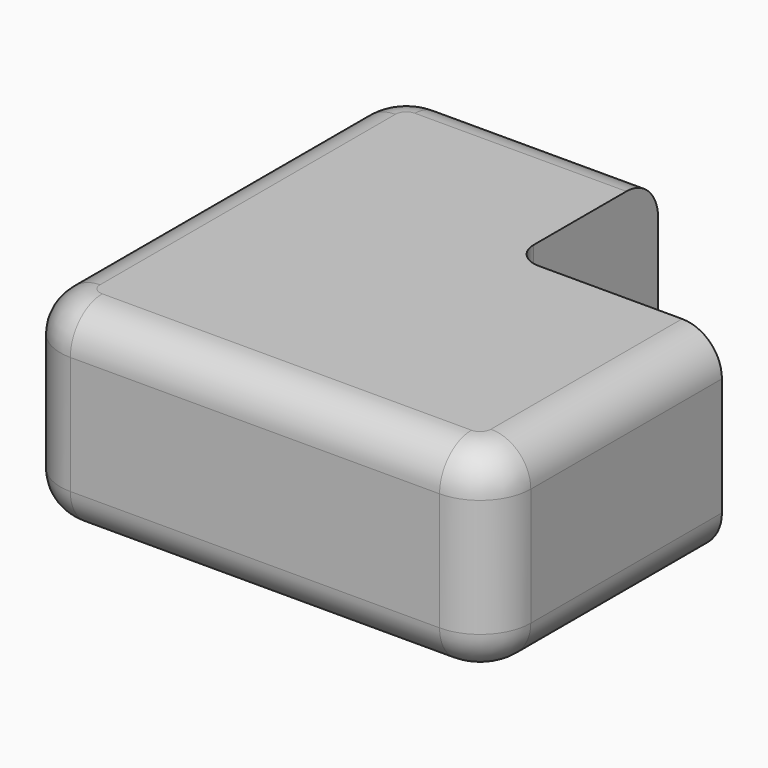
from build123d import *

# Parameters (mm, degrees)
F1_DEPTH  = 27.3
F3_R      = 7
F4_R      = 3.5
F5_R      = 5.5
F2_R      = 6.1305723334
F6_DEPTH  = 0.1
F7_R      = 2.5
F8_DEPTH  = 2
F9_R      = 5
F9_R_2    = 2.5
F10_DEPTH = 1.5


with BuildPart() as f1:
    # F0 (on Top) → F1 (new body)
    with BuildSketch(Plane.XY):
        Polygon((36.2, 0), (0, 0), (0, -65), (65, -65), (65, -25), (36.2, -25), align=None)
    extrude(amount=F1_DEPTH)

    # F3
    f3_edges = [f1.edges().sort_by_distance(p)[0] for p in [
        (0, 0, 13.65),
        (0, -65, 13.65),
        (65, -65, 13.65),
    ]]
    fillet(f3_edges, radius=F3_R)

    # F4
    f4_edges = [f1.edges().sort_by_distance(p)[0] for p in [
        (36.2, -25, 13.65),
    ]]
    fillet(f4_edges, radius=F4_R)

    # F5
    f5_edges = [f1.edges().sort_by_distance(p)[0] for p in [
        (65, -41.5, 0),
        (62.949747, -62.949747, 0),
        (32.5, -65, 0),
        (2.050253, -62.949747, 0),
        (0, -32.5, 0),
        (2.050253, -2.050253, 0),
        (21.6, 0, 0),
        (21.6, 0, 27.3),
        (2.050253, -2.050253, 27.3),
        (0, -32.5, 27.3),
        (2.050253, -62.949747, 27.3),
        (32.5, -65, 27.3),
        (62.949747, -62.949747, 27.3),
        (65, -41.5, 27.3),
    ]]
    fillet(f5_edges, radius=F5_R)

    # F2 (on face) → F6 (join)
    with BuildSketch(Plane(origin=(0, -25, 0), x_dir=(-1, 0, 0), z_dir=(0, 1, 0))):
        with Locations((-50.6, 13.65)):
            Circle(F2_R)
    extrude(amount=F6_DEPTH)

    # F7 (on face) → F8 (join)
    with BuildSketch(Plane(origin=(0, -24.9, 0), x_dir=(-1, 0, 0), z_dir=(0, 1, 0))):
        with Locations((-50.6, 13.65)):
            Circle(F7_R)
    extrude(amount=F8_DEPTH)


with BuildPart() as f10:
    # F9 (on face) → F10 (new body)
    with BuildSketch(Plane(origin=(0, -22.9, 0), x_dir=(-1, 0, 0), z_dir=(0, 1, 0))):
        with Locations((-50.6, 13.65)):
            Circle(F9_R)
        with Locations((-50.6, 13.65)):
            Circle(F9_R_2, mode=Mode.SUBTRACT)
    extrude(amount=F10_DEPTH)


solid = Compound([f1.part, f10.part])
